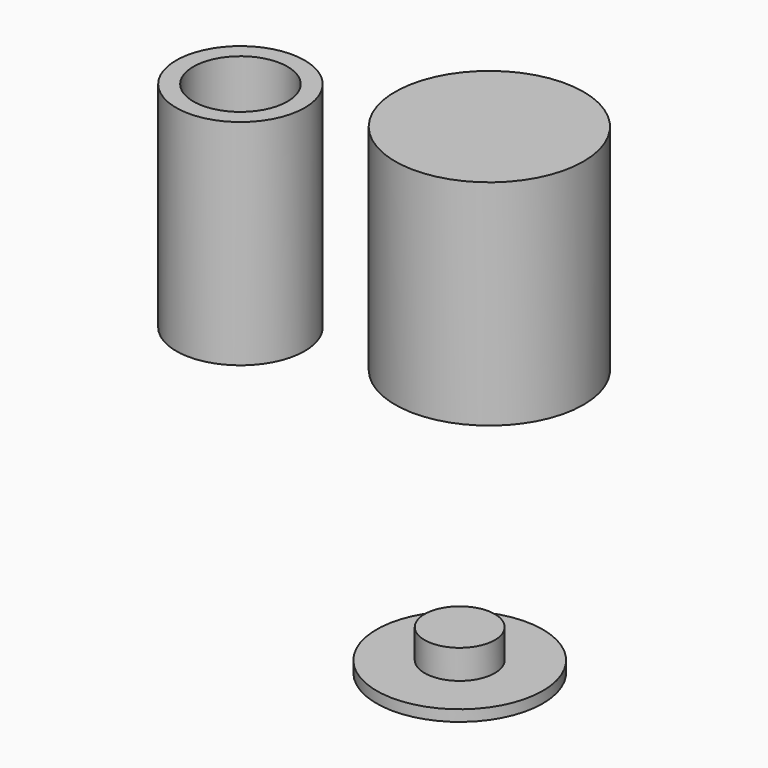
from build123d import *

# Parameters (mm, degrees)
F0_R     = 9.7
F1_DEPTH = 1.3
F2_R     = 4.1
F3_DEPTH = 3.4
F4_R     = 7.5
F4_R_2   = 5.5
F5_DEPTH = 25
F4_R_3   = 11
F6_DEPTH = 25


with BuildPart() as f1:
    # F0 (on Top) → F1 (new body)
    with BuildSketch(Plane.XY):
        Circle(F0_R)
    extrude(amount=F1_DEPTH)

    # F2 (on face) → F3 (join)
    with BuildSketch(Plane.XY.offset(1.3)):
        Circle(F2_R)
    extrude(amount=F3_DEPTH)


with BuildPart() as f5:
    # F4 (on Top) → F5 (new body)
    with BuildSketch(Plane.XY):
        with Locations((-58.199015, 40.756579)):
            Circle(F4_R)
        with Locations((-58.199015, 40.756579)):
            Circle(F4_R_2, mode=Mode.SUBTRACT)
    extrude(amount=F5_DEPTH)


with BuildPart() as f6:
    # F4 (on Top) → F6 (new body)
    with BuildSketch(Plane.XY):
        with Locations((-35.2352, 48.369221)):
            Circle(F4_R_3)
    extrude(amount=F6_DEPTH)


solid = Compound([f1.part, f5.part, f6.part])
